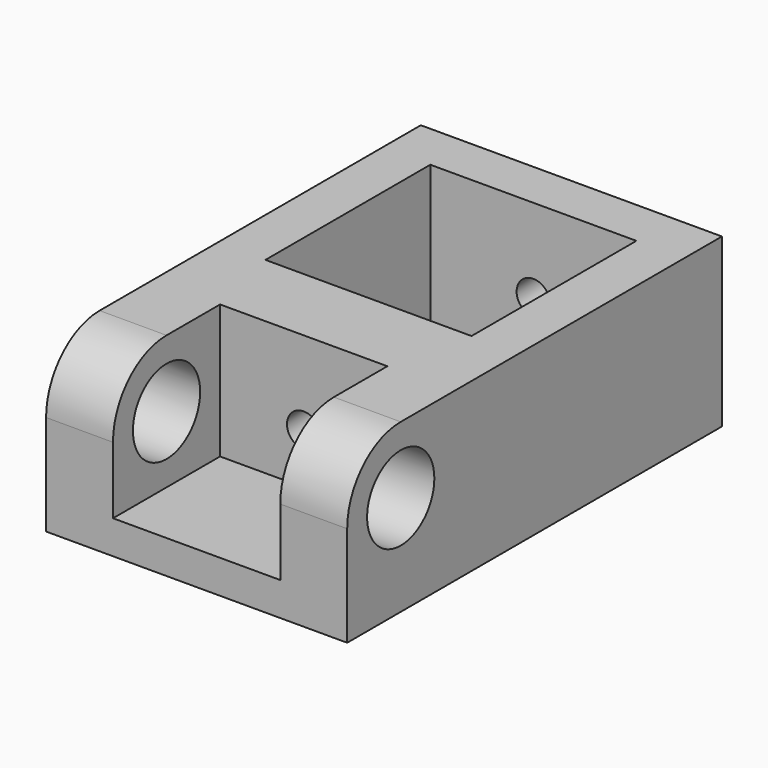
from build123d import *

# Parameters (mm, degrees)
SKETCH_W        = 28.575
SKETCH_H        = 44.45
PAD_DEPTH       = 15.875
SKETCH002_W     = 19.558
SKETCH002_H     = 19.558
POCKET_DEPTH    = 15.876
SKETCH003_W     = 15.875
SKETCH003_H     = 12.7
POCKET001_DEPTH = 12.7
SKETCH004_R     = 3.9878
POCKET002_DEPTH = 28.576
SKETCH005_R     = 1.5875
POCKET003_DEPTH = 44.451
POCKET004_DEPTH = 3.2


with BuildPart() as part:
    # Sketch → Pad (new body)
    with BuildSketch(Plane.XY):
        with Locations((14.2875, 22.225)):
            Rectangle(SKETCH_W, SKETCH_H)
    extrude(amount=PAD_DEPTH)

    # Sketch002 → Pocket (cut, through all)
    with BuildSketch(Plane(origin=(0, 0, 0), x_dir=(1, 0, 0), z_dir=(0, 0, -1))):
        with Locations((14.2875, -30.1625)):
            Rectangle(SKETCH002_W, SKETCH002_H)
    extrude(amount=-POCKET_DEPTH, mode=Mode.SUBTRACT)

    # Sketch003 → Pocket001 (cut)
    with BuildSketch(Plane.XY.offset(15.875)):
        with Locations((14.2875, 6.35)):
            Rectangle(SKETCH003_W, SKETCH003_H)
    extrude(amount=-POCKET001_DEPTH, mode=Mode.SUBTRACT)

    # Sketch004 → Pocket002 (cut, through all)
    with BuildSketch(Plane.YZ.offset(28.575)):
        with Locations((6.35, 9.525)):
            Circle(SKETCH004_R)
        with BuildLine():
            ThreePointArc((6.35, 15.875), (1.859872, 14.015128), (0, 9.525))
            Line((0, 9.525), (0, 15.875))
            Line((0, 15.875), (6.35, 15.875))
        make_face()
    extrude(amount=-POCKET002_DEPTH, mode=Mode.SUBTRACT)

    # Sketch005 → Pocket003 (cut, through all)
    with BuildSketch(Plane(origin=(0, 44.45, 0), x_dir=(-1, 0, 0), z_dir=(0, 1, 0))):
        with Locations((-14.2875, 7.9375)):
            Circle(SKETCH005_R)
    extrude(amount=-POCKET003_DEPTH, mode=Mode.SUBTRACT)

    # Sketch006 → Pocket004 (cut)
    with BuildSketch(Plane(origin=(0, 20.3835, 0), x_dir=(-1, 0, 0), z_dir=(0, 1, 0))):
        Polygon((-16.287496, 11.401586), (-12.287504, 11.401586), (-10.287508, 7.937492), (-12.287504, 4.473397), (-16.287496, 4.473397), (-18.287492, 7.937492), align=None)
    extrude(amount=-POCKET004_DEPTH, mode=Mode.SUBTRACT)


solid = part.part
